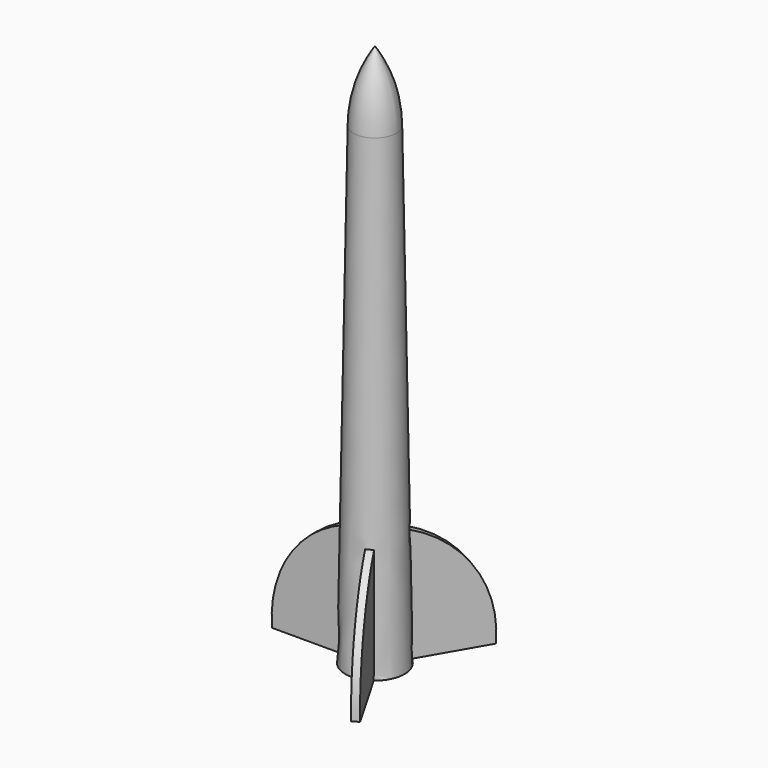
from build123d import *

# Parameters (mm, degrees)
F0_R     = 3.175
F1_DEPTH = 50.8
F1_TAPER = 1
F5_DEPTH = 0.381
F6_COUNT = 3


with BuildPart() as f1:
    # F0 (on Top) → F1 (new body)
    with BuildSketch(Plane.XY):
        Circle(F0_R)
    extrude(amount=F1_DEPTH, taper=F1_TAPER)

    # F2 (on Front) → F3 (revolve)
    with BuildSketch(Plane.XZ):
        with BuildLine():
            Line((0, 50.8), (2.2882827016, 50.8))
            ThreePointArc((2.2882827016, 50.8), (1.7034797628, 54.7199595154), (0, 58.2985393703))
            Line((0, 58.2985393703), (0, 50.8))
        make_face()
    revolve(axis=Axis((0, 0, 54.5492696851), (0, 0, -1)))

    # F4 (on Front) → F5 (join, symmetric)
    with BuildSketch(Plane.XZ):
        with BuildLine():
            Line((-3.175, 0), (-2.5223440025, 12.3934820294))
            ThreePointArc((-2.5223440025, 12.3934820294), (-8.7956780085, 7.6340852704), (-10.7263046287, 0))
            Line((-10.7263046287, 0), (-3.175, 0))
        make_face()
    extrude(amount=F5_DEPTH, both=True)

    # F6: F1 ×3 about axis
    f6_axis = Axis((0, 0, 0), (0, 0, 1))


with BuildPart() as f1_1:
    add(f1.part)
    for i in range(1, F6_COUNT):
        add(f1.part.rotate(f6_axis, i * 360 / F6_COUNT))


solid = f1_1.part
